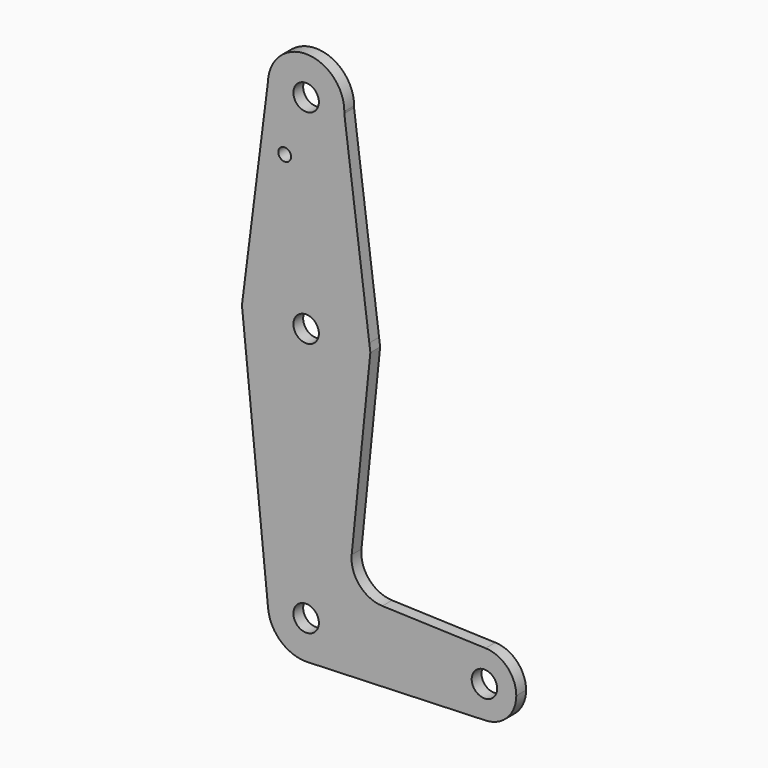
from build123d import *

# Parameters (mm, degrees)
F0_R     = 3.175
F0_R_2   = 1.5875
F1_DEPTH = 3.048


with BuildPart() as f1:
    # F0 (on Front) → F1 (new body)
    with BuildSketch(Plane.XZ):
        with BuildLine():
            ThreePointArc((-15.7486602144, 1.998831271), (-1.0014100298, -15.8433835702), (15.875, 0))
            ThreePointArc((15.875, 0), (15.8423782167, 1.0171909556), (15.7446469367, 2.0302014283))
            ThreePointArc((15.7446469367, 2.0302014283), (-0.0158129153, 15.8749921245), (-15.7486602144, 1.998831271))
        make_face()
        Circle(F0_R, mode=Mode.SUBTRACT)
        with BuildLine():
            ThreePointArc((15.7446469367, 2.0302014283), (15.8423782167, 1.0171909556), (15.875, 0))
            ThreePointArc((15.875, 0), (-1.0014100298, -15.8433835702), (-15.7486602144, 1.998831271))
            Line((-15.7486602144, 1.998831271), (-16.0023533186, 0))
            Line((-16.0023533186, 0), (-9.4765597516, -64.4593957857))
            ThreePointArc((-9.4765597516, -64.4593957857), (-0.4803089452, -53.9871177702), (9.525, -63.5))
            ThreePointArc((9.525, -63.5), (6.9754845878, -69.9860033738), (0.6917738025, -72.9998459991))
            Line((0.6917738025, -72.9998459991), (44.7384295714, -71.398239208))
            ThreePointArc((44.7384295714, -71.398239208), (36.5125022895, -63.4720101198), (44.7263796775, -55.5332945145))
            Line((44.7263796775, -55.5332945145), (18.9905758542, -54.6366433164))
            ThreePointArc((18.9905758542, -54.6366433164), (13.2773365503, -51.9185815563), (11.3576793738, -45.8899930483))
            Line((11.3576793738, -45.8899930483), (16.0064323111, 0))
            Line((16.0064323111, 0), (15.7446469367, 2.0302014283))
        make_face()
        with BuildLine():
            ThreePointArc((-15.7486602144, 1.998831271), (-0.0158129153, 15.8749921245), (15.7446469367, 2.0302014283))
            Line((15.7446469367, 2.0302014283), (9.5142731171, 50.3480795935))
            ThreePointArc((9.5142731171, 50.3480795935), (-0.3576399348, 41.2817166108), (-9.521359424, 51.0633243601))
            Line((-9.521359424, 51.0633243601), (-15.7486602144, 1.998831271))
        make_face()
        with Locations((-5.3462912329, 36.5252)):
            Circle(F0_R_2, mode=Mode.SUBTRACT)
        with BuildLine():
            ThreePointArc((-9.521359424, 51.0633243601), (-0.3576399348, 41.2817166108), (9.5142731171, 50.3480795935))
            ThreePointArc((9.5142731171, 50.3480795935), (9.5223179016, 50.5739761518), (9.525, 50.8))
            ThreePointArc((9.525, 50.8), (0.1316747626, 60.3240898125), (-9.521359424, 51.0633243601))
        make_face()
        with Locations((0, 50.8)):
            Circle(F0_R, mode=Mode.SUBTRACT)
        with BuildLine():
            ThreePointArc((9.525, -63.5), (-0.4803089452, -53.9871177702), (-9.4765597516, -64.4593957857))
            ThreePointArc((-9.4765597516, -64.4593957857), (-6.3869938211, -70.5662532455), (0, -73.025))
            Line((0, -73.025), (0.6917738025, -72.9998459991))
            ThreePointArc((0.6917738025, -72.9998459991), (6.9754845878, -69.9860033738), (9.525, -63.5))
        make_face()
        with Locations((0, -63.5)):
            Circle(F0_R, mode=Mode.SUBTRACT)
        with BuildLine():
            Line((0.6917738025, -72.9998459991), (0, -73.025))
            ThreePointArc((0, -73.025), (0.3461154857, -73.0187094225), (0.6917738025, -72.9998459991))
        make_face()
        with BuildLine():
            ThreePointArc((52.3875, -63.4659813559), (50.1595389455, -57.9519019876), (44.7263796775, -55.5332945145))
            ThreePointArc((44.7263796775, -55.5332945145), (36.5125022895, -63.4720101198), (44.7384295714, -71.398239208))
            ThreePointArc((44.7384295714, -71.398239208), (50.1637254035, -68.9757225716), (52.3875, -63.4659813559))
        make_face()
        with Locations((44.45, -63.4659813559)):
            Circle(F0_R, mode=Mode.SUBTRACT)
    extrude(amount=F1_DEPTH)


solid = f1.part
